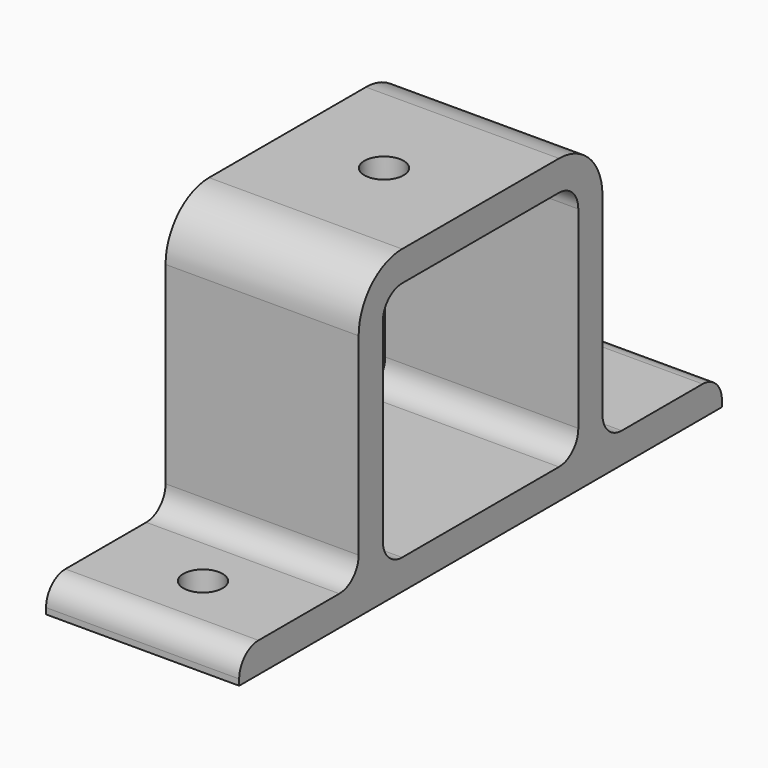
from build123d import *

# Parameters (mm, degrees)
PAD_DEPTH       = 16
SKETCH014_R     = 3.25
POCKET007_DEPTH = 10
SKETCH017_R     = 3.25
POCKET008_DEPTH = 5


with BuildPart() as part:
    # Sketch → Pad (new body, symmetric)
    with BuildSketch(Plane.YZ):
        with BuildLine():
            Line((-5, 9), (-5, 41))
            ThreePointArc((4, 50), (-2.363961, 47.363961), (-5, 41))
            Line((4, 50), (36.5, 50))
            ThreePointArc((45.5, 41), (42.863961, 47.363961), (36.5, 50))
            Line((45.5, 9), (45.5, 41))
            ThreePointArc((45.5, 9), (46.671573, 6.171573), (49.5, 5))
            Line((49.5, 5), (66.25, 5))
            ThreePointArc((70.25, 1), (69.078427, 3.828427), (66.25, 5))
            Line((70.25, 0), (70.25, 1))
            Line((-29.75, 0), (70.25, 0))
            Line((-29.75, 0), (-29.75, 1))
            ThreePointArc((-25.75, 5), (-28.578427, 3.828427), (-29.75, 1))
            Line((-25.75, 5), (-9, 5))
            ThreePointArc((-9, 5), (-6.171573, 6.171573), (-5, 9))
        make_face()
        with BuildLine():
            ThreePointArc((4, 45), (1.171573, 43.828427), (0, 41))
            Line((0, 9), (0, 41))
            ThreePointArc((0, 9), (1.171573, 6.171573), (4, 5))
            Line((36.5, 5), (4, 5))
            ThreePointArc((36.5, 5), (39.328427, 6.171573), (40.5, 9))
            Line((40.5, 41), (40.5, 9))
            ThreePointArc((40.5, 41), (39.328427, 43.828427), (36.5, 45))
            Line((4, 45), (36.5, 45))
        make_face(mode=Mode.SUBTRACT)
    extrude(amount=PAD_DEPTH, both=True)

    # Sketch014 → Pocket007 (cut)
    with BuildSketch(Plane.XY.offset(50)):
        with Locations((0, 20.25)):
            Circle(SKETCH014_R)
    extrude(amount=-POCKET007_DEPTH, mode=Mode.SUBTRACT)

    # Sketch017 (on Face13 of Pocket007) → Pocket008 (cut)
    with BuildSketch(Plane(origin=(0, 0, 5), x_dir=(0, -1, 0), z_dir=(0, 0, 1))):
        with Locations((-57.75, 0)):
            Circle(SKETCH017_R)
        with Locations((17.25, 0)):
            Circle(SKETCH017_R)
    extrude(amount=-POCKET008_DEPTH, mode=Mode.SUBTRACT)


solid = part.part
